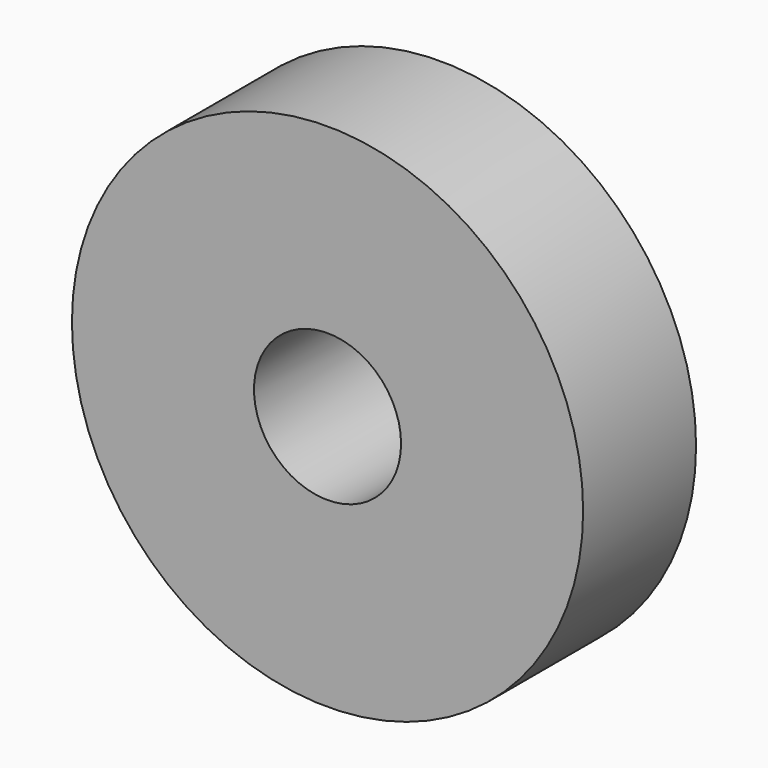
from build123d import *

# Parameters (mm, degrees)
F0_R     = 16.557582
F0_R_2   = 2.032
F0_R_3   = 4.7625
F1_DEPTH = 9.144
F2_DEPTH = 5.08
F3_DEPTH = 24.638


with BuildPart() as f1:
    # F0 (on Front) → F1 (new body)
    with BuildSketch(Plane.XZ):
        Circle(F0_R)
        with Locations((-8.22466, 7.660374)):
            Circle(F0_R_2, mode=Mode.SUBTRACT)
        Circle(F0_R_3, mode=Mode.SUBTRACT)
        Circle(F0_R_3)
        with Locations((-8.22466, 7.660374)):
            Circle(F0_R_2)
    extrude(amount=F1_DEPTH)

    # F0 (on Front) → F2 (join)
    with BuildSketch(Plane.XZ):
        with Locations((-8.22466, 7.660374)):
            Circle(F0_R_2)
    extrude(amount=-F2_DEPTH)

    # F0 (on Front) → F3 (cut)
    with BuildSketch(Plane.XZ):
        Circle(F0_R_3)
    extrude(amount=F3_DEPTH, mode=Mode.SUBTRACT)


solid = f1.part
